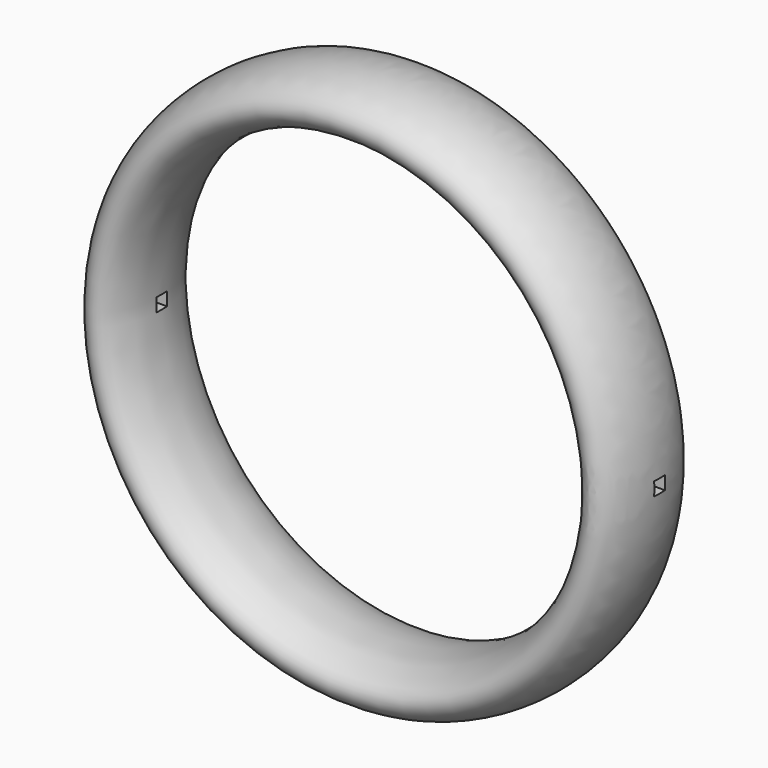
from build123d import *

# Parameters (mm, degrees)
F3_W          = 0.5
F3_H          = 0.5
F4_DEPTH      = 10.2560001
F4_DEPTH_BACK = 10.2560001


with BuildPart() as f2:
    # F1 (on Top) → F2 (revolve)
    with BuildSketch(Plane.XY):
        with BuildLine():
            add(Edge.make_bspline(
                [(8.255, 0), (8.255, -3.4641016151), (9.755, -1.7320508076), (11.255, 0), (9.755, 1.7320508076), (8.255, 3.4641016151), (8.255, 0)],
                knots=[4.7123889804, 4.7123889804, 4.7123889804, 6.8067840828, 6.8067840828, 8.9011791852, 8.9011791852, 10.9955742876, 10.9955742876, 10.9955742876], degree=2, weights=[1, 0.5, 1, 0.5, 1, 0.5, 1]))
        make_face()
    revolve(axis=Axis((0, -1.9436068833, 0), (0, -1, 0)))

    # F3 (on Right) → F4 (cut, two sides)
    with BuildSketch(Plane.YZ) as f4_sk:
        Rectangle(F3_W, F3_H)
    extrude(amount=-F4_DEPTH, mode=Mode.SUBTRACT)
    extrude(f4_sk.sketch, amount=F4_DEPTH_BACK, mode=Mode.SUBTRACT)


solid = f2.part
